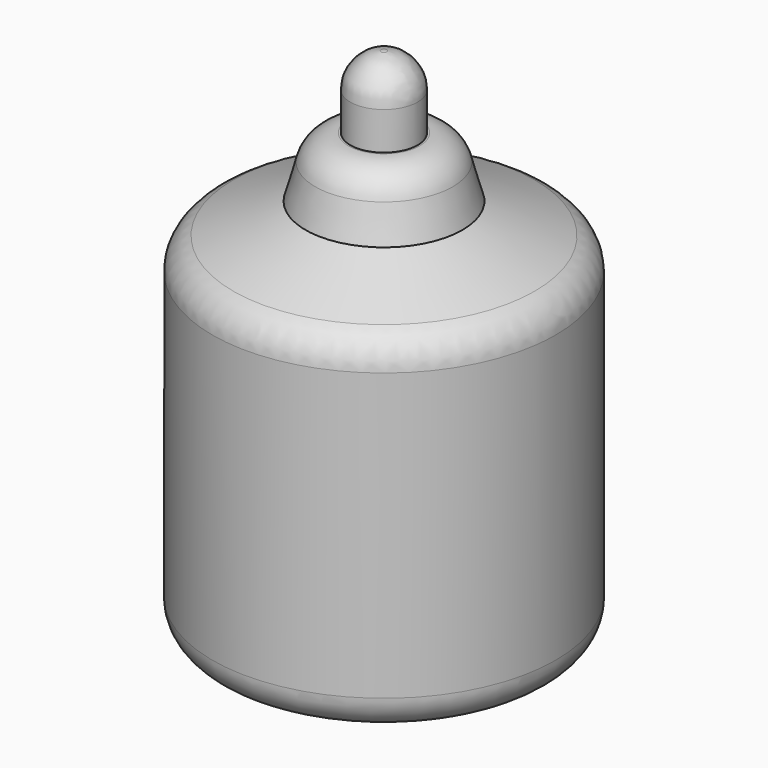
from build123d import *

# Parameters (mm, degrees)
F3_R = 5


with BuildPart() as f2:
    # F1 (on face) → F2 (revolve)
    with BuildSketch(Plane.XZ):
        Polygon((4.902669, 74.482754), (0, 75), (0, 0), (25, 0), (25, 50), (11.420459, 55.711634), (8.999567, 64.4641), (4.902669, 64.4641), align=None)
    revolve(axis=Axis((0, 0, 37.5), (0, 0, 1)))

    # F3
    f3_edges = [f2.edges().sort_by_distance(p)[0] for p in [
        (-25, 0, 50),
        (-25, 0, 0),
        (25, 0, 25),
        (-8.999567, 0, 64.4641),
        (-4.902669, 0, 74.482754),
    ]]
    fillet(f3_edges, radius=F3_R)


solid = f2.part
